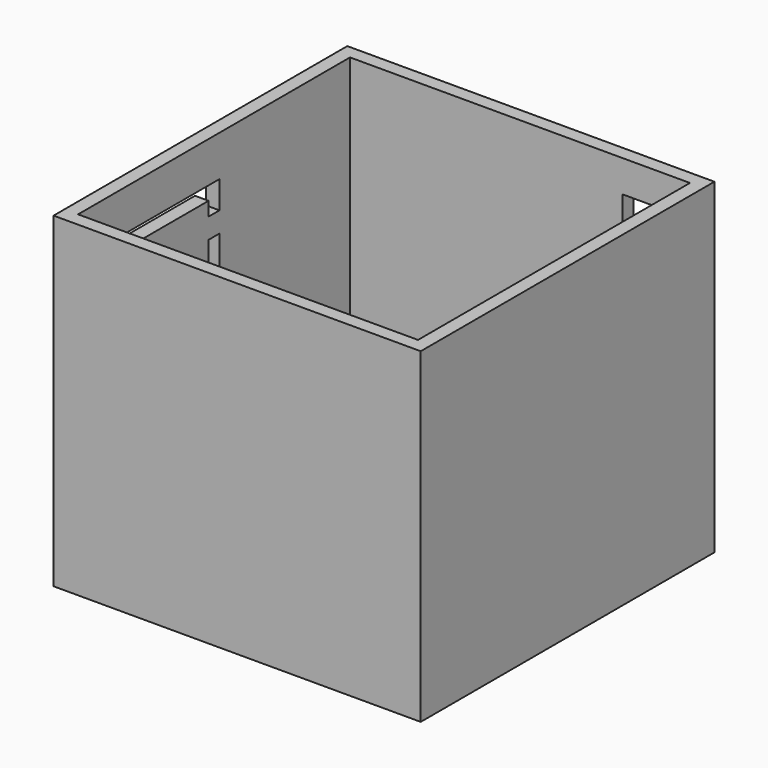
from build123d import *

# Parameters (mm, degrees)
F0_W     = 50
F0_H     = 2
F1_DEPTH = 48
F3_W     = 2
F3_H     = 40
F3_H_2   = 3.4556204919
F3_H_3   = 28.4943341073
F3_H_4   = 2.0500454009
F4_DEPTH = 25
F5_W     = 10
F5_H     = 5
F6_DEPTH = 2


with BuildPart() as f1:
    # F0 (on Top) → F1 (new body)
    with BuildSketch(Plane.XY):
        with Locations((-0.1711930672, -2.4346486163)):
            Rectangle(F0_W, F0_H)
        Polygon((-27.1711930672, -3.4346486163), (-25.1711930672, -3.4346486163), (-25.1711930672, -1.4346486163), (-25.1711930672, 48.5653513837), (-25.1711930672, 50.5653513837), (-27.1711930672, 50.5653513837), align=None)
        Polygon((24.8288069328, -1.4346486163), (24.8288069328, -3.4346486163), (26.8288069328, -3.4346486163), (26.8288069328, 50.5653513837), (24.8288069328, 50.5653513837), (24.8288069328, 48.5653513837), align=None)
        with Locations((-0.1711930672, 49.5653513837)):
            Rectangle(F0_W, F0_H)
    extrude(amount=F1_DEPTH)

    # F3 (on face) → F4 (cut)
    with BuildSketch(Plane(origin=(-27.1711930672, 0, 0), x_dir=(0, -1, 0), z_dir=(-1, 0, 0))):
        with Locations((0.4346486163, 20)):
            Rectangle(F3_W, F3_H)
        with Locations((-23.5653513837, 1.7278102459)):
            Rectangle(F3_W, F3_H_2)
        with Locations((-23.5653513837, 20.7027875455)):
            Rectangle(F3_W, F3_H_3)
        with Locations((-23.5653513837, 38.9749772996)):
            Rectangle(F3_W, F3_H_4)
        Polygon((-0.5653513837, 40), (1.4346486163, 40), (1.4346486163, 42), (-24.5653513837, 42), (-24.5653513837, 40), (-22.5653513837, 40), align=None)
    extrude(amount=-F4_DEPTH, mode=Mode.SUBTRACT)

    # F5 (on face) → F6 (cut)
    with BuildSketch(Plane(origin=(0, 50.5653513837, 0), x_dir=(-1, 0, 0), z_dir=(0, 1, 0))):
        with Locations((-19.8940047994, 40.8047514008)):
            Rectangle(F5_W, F5_H)
        with Locations((-19.8940047994, 40.8047514008)):
            Rectangle(F5_W, F5_H)
    extrude(amount=-F6_DEPTH, mode=Mode.SUBTRACT)


solid = f1.part
